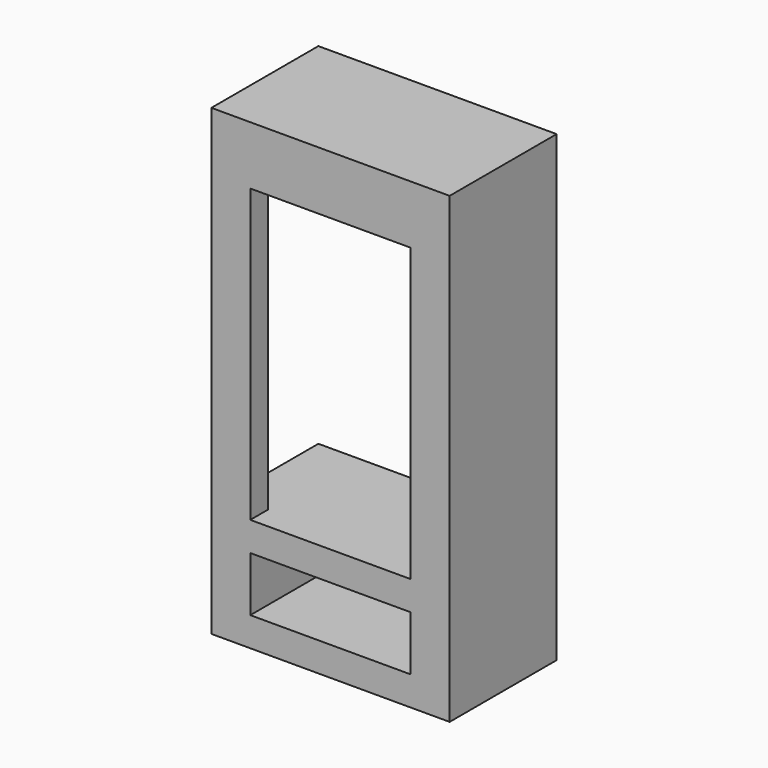
from build123d import *

# Parameters (mm, degrees)
F0_W     = 1244.6
F0_H     = 698.5
F2_DEPTH = 2419.35
F3_W     = 838.2
F3_H     = 1524
F4_DEPTH = 698.5
F5_W     = 584.2
F5_H     = 1524
F6_DEPTH = 203.2
F7_W     = 838.2
F7_H     = 285.75
F8_DEPTH = 698.5


with BuildPart() as f2:
    # F0 (on Top) → F2 (new body)
    with BuildSketch(Plane.XY):
        Rectangle(F0_W, F0_H)
    extrude(amount=F2_DEPTH)

    # F3 (on face) → F4 (cut)
    with BuildSketch(Plane.XZ.offset(349.25)):
        with Locations((0, 1352.55)):
            Rectangle(F3_W, F3_H)
    extrude(amount=-F4_DEPTH, mode=Mode.SUBTRACT)

    # F5 (on face) → F6 (cut)
    with BuildSketch(Plane.YZ.offset(-419.1)):
        with Locations((57.15, 1352.55)):
            Rectangle(F5_W, F5_H)
    extrude(amount=-F6_DEPTH, mode=Mode.SUBTRACT)

    # F7 (on face) → F8 (cut)
    with BuildSketch(Plane.XZ.offset(349.25)):
        with Locations((0, 295.275)):
            Rectangle(F7_W, F7_H)
    extrude(amount=-F8_DEPTH, mode=Mode.SUBTRACT)


solid = f2.part
